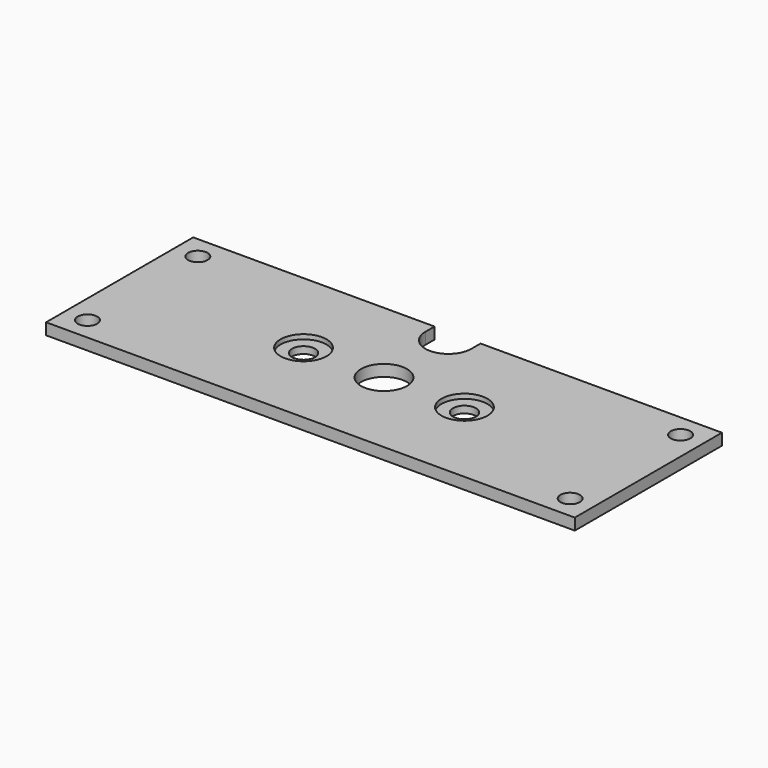
from build123d import *

# Parameters (mm, degrees)
F0_R     = 4.25
F0_R_2   = 5
F0_R_3   = 10
F1_DEPTH = 5
F2_R     = 5
F2_R_2   = 10
F3_DEPTH = 2


with BuildPart() as f1:
    # F0 (on Top) → F1 (new body)
    with BuildSketch(Plane.XY):
        with BuildLine():
            Line((-10, 40), (-115, 40))
            Line((-115, 40), (-115, -40))
            Line((-115, -40), (115, -40))
            Line((115, -40), (115, 40))
            Line((115, 40), (10, 40))
            Line((10, 40), (10, 35))
            ThreePointArc((10, 35), (0, 25), (-10, 35))
            Line((-10, 35), (-10, 40))
        make_face()
        with Locations((-105, -30)):
            Circle(F0_R, mode=Mode.SUBTRACT)
        with Locations((105, -30)):
            Circle(F0_R, mode=Mode.SUBTRACT)
        with Locations((-35, 0)):
            Circle(F0_R_2, mode=Mode.SUBTRACT)
        with Locations((-105, 30)):
            Circle(F0_R, mode=Mode.SUBTRACT)
        Circle(F0_R_3, mode=Mode.SUBTRACT)
        with Locations((35, 0)):
            Circle(F0_R_2, mode=Mode.SUBTRACT)
        with Locations((105, 30)):
            Circle(F0_R, mode=Mode.SUBTRACT)
    extrude(amount=F1_DEPTH)

    # F2 (on face) → F3 (cut)
    with BuildSketch(Plane.XY.offset(5)):
        with Locations((-35, 0)):
            Circle(F2_R)
        with Locations((35, 0)):
            Circle(F2_R)
        with Locations((35, 0)):
            Circle(F2_R_2)
        with Locations((35, 0)):
            Circle(F2_R, mode=Mode.SUBTRACT)
        with Locations((-35, 0)):
            Circle(F2_R_2)
        with Locations((-35, 0)):
            Circle(F2_R, mode=Mode.SUBTRACT)
    extrude(amount=-F3_DEPTH, mode=Mode.SUBTRACT)


solid = f1.part
